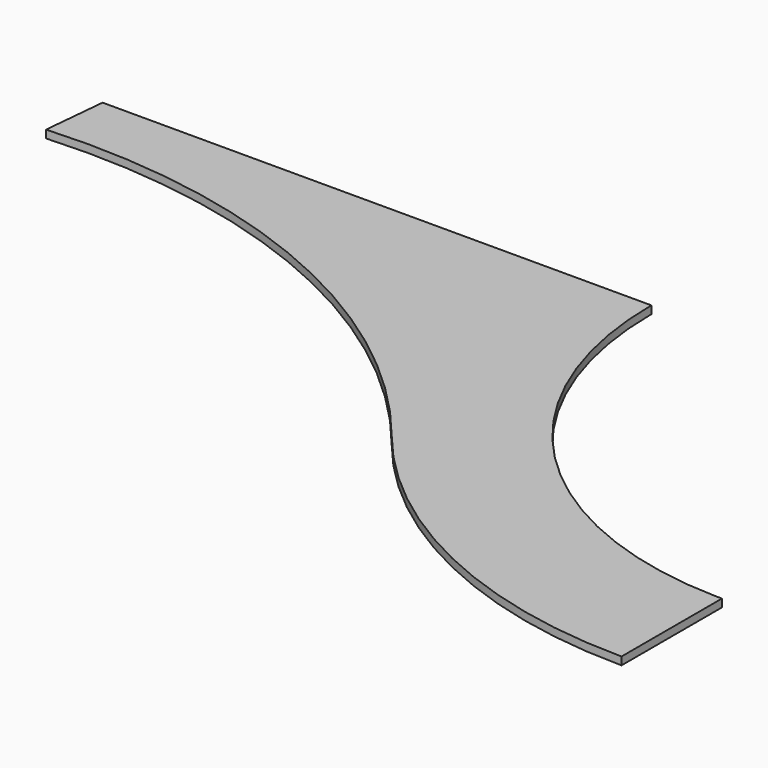
from build123d import *

# Parameters (mm, degrees)
F1_DEPTH = 19.05


with BuildPart() as f1:
    # F0 (on Top) → F1 (new body, symmetric)
    with BuildSketch(Plane.XY):
        with BuildLine():
            Line((-2291.3076398854, 126.2673181521), (-2316.6743968408, 127.8194759219))
            Line((-2316.6743968408, 127.8194759219), (-2343.3556362702, -153.5530842325))
            ThreePointArc((-2343.3556362702, -153.5530842325), (-2330.5278016841, -152.7623974711), (-2317.6967938555, -152.0249940366))
            Line((-2317.6967938555, -152.0249940366), (-2291.3076398854, 126.2673181521))
        make_face()
        with BuildLine():
            Line((-1976.4500267242, 127.8194759219), (-2316.6743968408, 127.8194759219))
            Line((-2316.6743968408, 127.8194759219), (-2291.3076398854, 126.2673181521))
            Line((-2291.3076398854, 126.2673181521), (-2317.6967938555, -152.0249940366))
            ThreePointArc((-2317.6967938555, -152.0249940366), (-860.7722517839, -427.062610277), (300.9871304167, -1348.2520313553))
            Line((300.9871304167, -1348.2520313553), (310.5663609149, -1358.1129358871))
            ThreePointArc((310.5663609149, -1358.1129358871), (1086.401925793, -1952.4422791876), (2039.0268335681, -2170.7401883026))
            Line((2039.0268335681, -2170.7401883026), (2039.0268335681, -1891.320769331))
            ThreePointArc((2039.0268335682, -1891.320769331), (1178.3695250645, -1686.6983487487), (487.771642016, -1133.8187039663))
            ThreePointArc((487.771642016, -1133.8187039663), (-608.9790041307, -238.6151698748), (-1976.4500267242, 127.8194759219))
        make_face()
        with BuildLine():
            Line((349.9268335681, 127.8194759219), (-1976.4500267242, 127.8194759219))
            ThreePointArc((-1976.4500267242, 127.8194759219), (-608.9790041307, -238.6151698748), (487.771642016, -1133.8187039663))
            ThreePointArc((487.771642016, -1133.8187039663), (1178.3695250645, -1686.6983487487), (2039.0268335682, -1891.320769331))
            Line((2039.0268335681, -1891.320769331), (2039.0268335681, -1586.6805240781))
            Line((2039.0268335681, -1586.6805240781), (2039.0268335681, -1586.4923656052))
            ThreePointArc((2039.0268335681, -1586.4923656052), (843.1450171965, -1075.5013354165), (349.9268335681, 127.8194759219))
        make_face()
        with BuildLine():
            Line((-2317.6967938555, -152.0249940366), (-2343.3556362702, -153.5530842325))
            Line((-2343.3556362702, -153.5530842325), (-2345.7840120459, -179.1620260819))
            ThreePointArc((-2345.7840120459, -179.1620260819), (-907.7521586728, -433.8121667128), (249.7859527251, -1324.2546556476))
            ThreePointArc((249.7859527251, -1324.2546556476), (1057.7800929437, -1966.9605004934), (2064.4268335681, -2196.2805240781))
            Line((2064.4268335681, -2196.2805240781), (2064.4268335681, -2170.8805240781))
            ThreePointArc((2064.4268335681, -2170.8805240781), (2051.7266397298, -2170.8454398665), (2039.0268335681, -2170.7401883026))
            ThreePointArc((2039.0268335681, -2170.7401883026), (1086.401925793, -1952.4422791876), (310.5663609149, -1358.1129358871))
            Line((310.5663609149, -1358.1129358871), (300.9871304167, -1348.2520313553))
            ThreePointArc((300.9871304167, -1348.2520313553), (-860.7722517839, -427.062610277), (-2317.6967938555, -152.0249940366))
        make_face()
        with BuildLine():
            ThreePointArc((-2317.6967938555, -152.0249940366), (-2330.5278016841, -152.7623974711), (-2343.3556362702, -153.5530842325))
            Line((-2343.3556362702, -153.5530842325), (-2317.6967938555, -152.0249940366))
        make_face()
        with BuildLine():
            Line((2064.4268335681, -1586.4923656052), (2039.0268335681, -1586.4923656052))
            ThreePointArc((2039.0268335681, -1586.4923656052), (2051.7264851122, -1586.6334838146), (2064.4268335681, -1586.6805240781))
            Line((2064.4268335681, -1586.6805240781), (2064.4268335681, -1586.4923656052))
        make_face()
        with BuildLine():
            ThreePointArc((2064.4268335681, -1586.6805240781), (2051.7264851122, -1586.6334838146), (2039.0268335681, -1586.4923656052))
            Line((2039.0268335681, -1586.4923656052), (2039.0268335681, -1586.6805240781))
            Line((2039.0268335681, -1586.6805240781), (2064.4268335681, -1586.6805240781))
        make_face()
        with BuildLine():
            Line((2039.0268335681, -1586.6805240781), (2039.0268335681, -1891.320769331))
            ThreePointArc((2039.0268335682, -1891.320769331), (2051.726582374, -1891.4405849964), (2064.4268335681, -1891.4805240781))
            Line((2064.4268335681, -1891.4805240781), (2064.4268335681, -1586.6805240781))
            Line((2064.4268335681, -1586.6805240781), (2039.0268335681, -1586.6805240781))
        make_face()
        with BuildLine():
            ThreePointArc((2064.4268335681, -1891.4805240781), (2051.726582374, -1891.4405849964), (2039.0268335682, -1891.320769331))
            Line((2039.0268335681, -1891.320769331), (2039.0268335681, -2170.7401883026))
            Line((2039.0268335681, -2170.7401883026), (2064.4268335681, -2170.8805240781))
            Line((2064.4268335681, -2170.8805240781), (2064.4268335681, -1891.4805240781))
        make_face()
        with BuildLine():
            Line((2064.4268335681, -2170.8805240781), (2039.0268335681, -2170.7401883026))
            ThreePointArc((2039.0268335681, -2170.7401883026), (2051.7266397298, -2170.8454398665), (2064.4268335681, -2170.8805240781))
        make_face()
    extrude(amount=F1_DEPTH, both=True)


solid = f1.part
